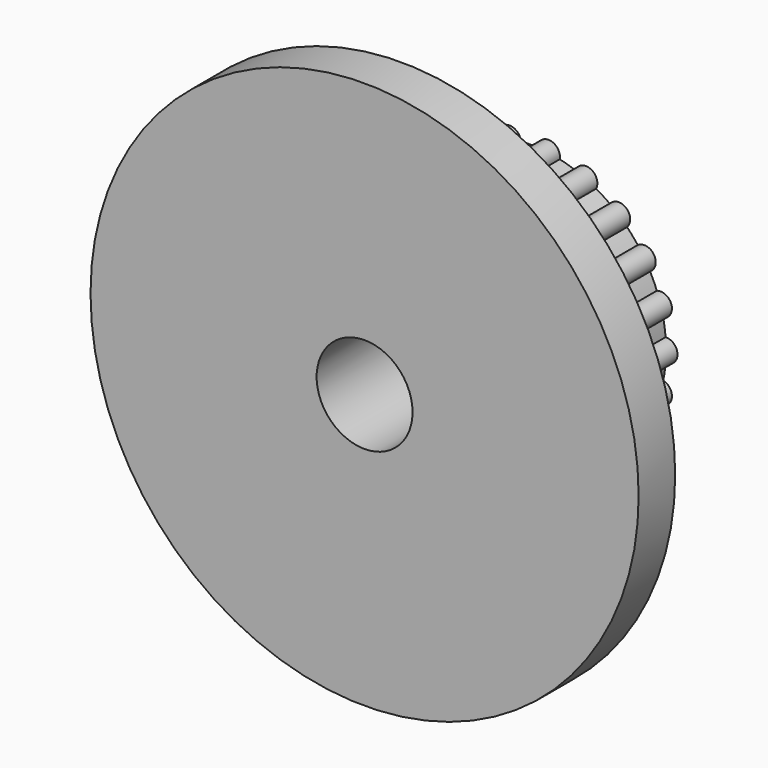
from build123d import *

# Parameters (mm, degrees)
CYLINDER011007_R     = 2.1
CYLINDER011007_DEPTH = 20
CYLINDER011006_R     = 12
CYLINDER011006_DEPTH = 2
CYLINDER011009_R     = 0.5
CYLINDER011009_DEPTH = 7
ARRAY007_COUNT       = 22
CYLINDER011005_R     = 6
CYLINDER011005_DEPTH = 7


with BuildPart() as belt_attach_insert_hole:
    # Cylinder011007 → Cylinder011007 (new body)
    with BuildSketch(Plane.XZ):
        Circle(CYLINDER011007_R)
    extrude(amount=CYLINDER011007_DEPTH)


with BuildPart() as belt_disk:
    # Cylinder011006 → Cylinder011006 (new body)
    with BuildSketch(Plane.XZ.offset(7)):
        Circle(CYLINDER011006_R)
    extrude(amount=CYLINDER011006_DEPTH)


with BuildPart() as belt_pin_array:
    # Cylinder011009 → Cylinder011009 (new body)
    with BuildSketch(Plane(origin=(6, 0, 0), x_dir=(1, 0, 0), z_dir=(0, -1, 0))):
        Circle(CYLINDER011009_R)
    extrude(amount=CYLINDER011009_DEPTH)

    # Array007: belt pin array ×22 about axis
    array007_axis = Axis((0, 0, 0), (0, 1, 0))


with BuildPart() as belt_pin_array_1:
    add(belt_pin_array.part)
    for i in range(1, ARRAY007_COUNT):
        add(belt_pin_array.part.rotate(array007_axis, i * 360 / ARRAY007_COUNT))


with BuildPart() as belt_attach_cut:
    # Cylinder011005 → Cylinder011005 (new body)
    with BuildSketch(Plane.XZ):
        Circle(CYLINDER011005_R)
    extrude(amount=CYLINDER011005_DEPTH)

    # Fusion003: union belt disk, belt pin array
    add(belt_disk.part)
    add(belt_pin_array_1.part)

    # Cut023015009007: cut belt attach insert hole
    add(belt_attach_insert_hole.part, mode=Mode.SUBTRACT)


solid = belt_attach_cut.part
